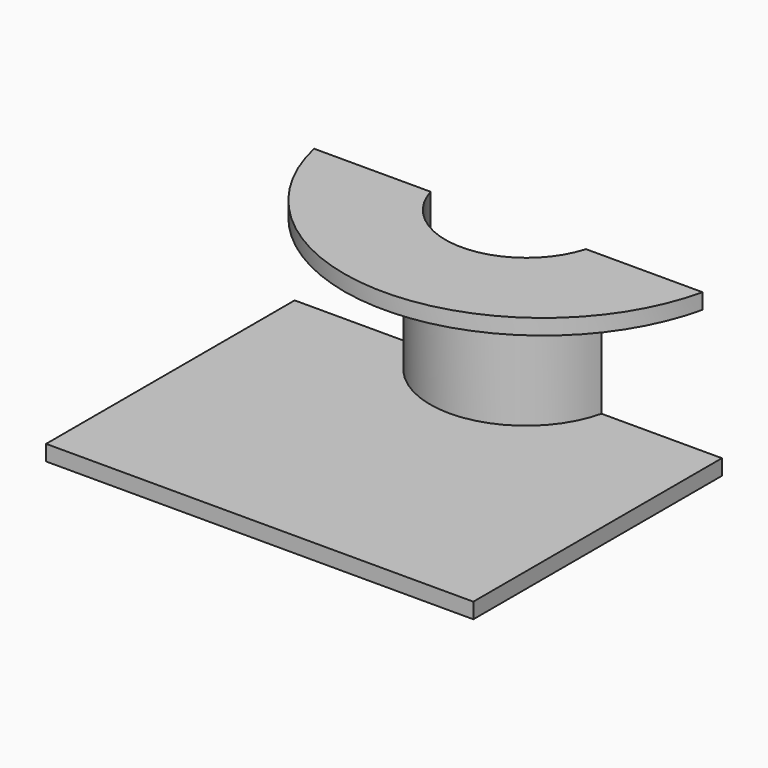
from build123d import *

# Parameters (mm, degrees)
PAD_DEPTH    = 0.02
PAD001_DEPTH = 0.16
PAD002_DEPTH = 0.02


with BuildPart() as part:
    # Sketch → Pad (new body)
    with BuildSketch(Plane.XY):
        with BuildLine():
            Line((-0.275, 0.2), (-0.275, -0.2))
            Line((-0.275, -0.2), (0.275, -0.2))
            Line((0.275, -0.2), (0.275, 0.2))
            Line((0.275, 0.2), (0.1, 0.2))
            ThreePointArc((-0.1, 0.2), (0, 0.125), (0.1, 0.2))
            Line((-0.275, 0.2), (-0.1, 0.2))
        make_face()
    extrude(amount=PAD_DEPTH)

    # Sketch001 (on Face8 of Pad) → Pad001 (join)
    with BuildSketch(Plane.XY.offset(0.02)):
        with BuildLine():
            Line((-0.1, 0.2), (-0.12, 0.2))
            ThreePointArc((-0.12, 0.2), (0, 0.105), (0.12, 0.2))
            Line((0.1, 0.2), (0.12, 0.2))
            ThreePointArc((-0.1, 0.2), (0, 0.125), (0.1, 0.2))
        make_face()
    extrude(amount=PAD001_DEPTH)

    # Sketch002 (on Face12 of Pad001) → Pad002 (join)
    with BuildSketch(Plane.XY.offset(0.18)):
        with BuildLine():
            ThreePointArc((-0.1, 0.2), (0, 0.125), (0.1, 0.2))
            Line((0.1, 0.2), (0.25, 0.2))
            ThreePointArc((-0.25, 0.2), (0, 0), (0.25, 0.2))
            Line((-0.1, 0.2), (-0.25, 0.2))
        make_face()
    extrude(amount=PAD002_DEPTH)


solid = part.part
